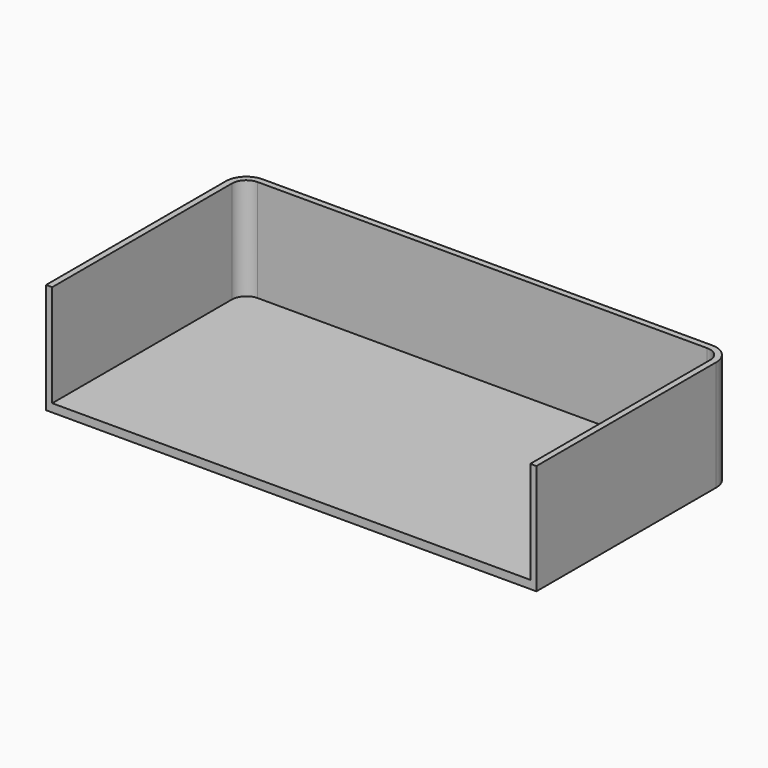
from build123d import *

# Parameters (mm, degrees)
F1_DEPTH = 2
F3_DEPTH = 25


with BuildPart() as f1:
    # F0 (on Top) → F1 (new body)
    with BuildSketch(Plane.XY):
        with BuildLine():
            Line((0, 55), (0, 0))
            Line((0, 0), (120, 0))
            Line((120, 0), (120, 55))
            ThreePointArc((120, 55), (118.535534, 58.535534), (115, 60))
            Line((115, 60), (5, 60))
            ThreePointArc((5, 60), (1.464466, 58.535534), (0, 55))
        make_face()
    extrude(amount=F1_DEPTH)

    # F2 (on face) → F3 (join)
    with BuildSketch(Plane.XY.offset(2)):
        with BuildLine():
            Line((0, 55), (0, 0))
            Line((0, 0), (1.5, 0))
            Line((1.5, 0), (1.5, 55))
            ThreePointArc((1.5, 55), (2.525126, 57.474874), (5, 58.5))
            Line((5, 58.5), (115, 58.5))
            ThreePointArc((115, 58.5), (117.474874, 57.474874), (118.5, 55))
            Line((118.5, 55), (118.5, 0))
            Line((118.5, 0), (120, 0))
            Line((120, 0), (120, 55))
            ThreePointArc((120, 55), (118.535534, 58.535534), (115, 60))
            Line((115, 60), (5, 60))
            ThreePointArc((5, 60), (1.464466, 58.535534), (0, 55))
        make_face()
    extrude(amount=F3_DEPTH)


solid = f1.part
